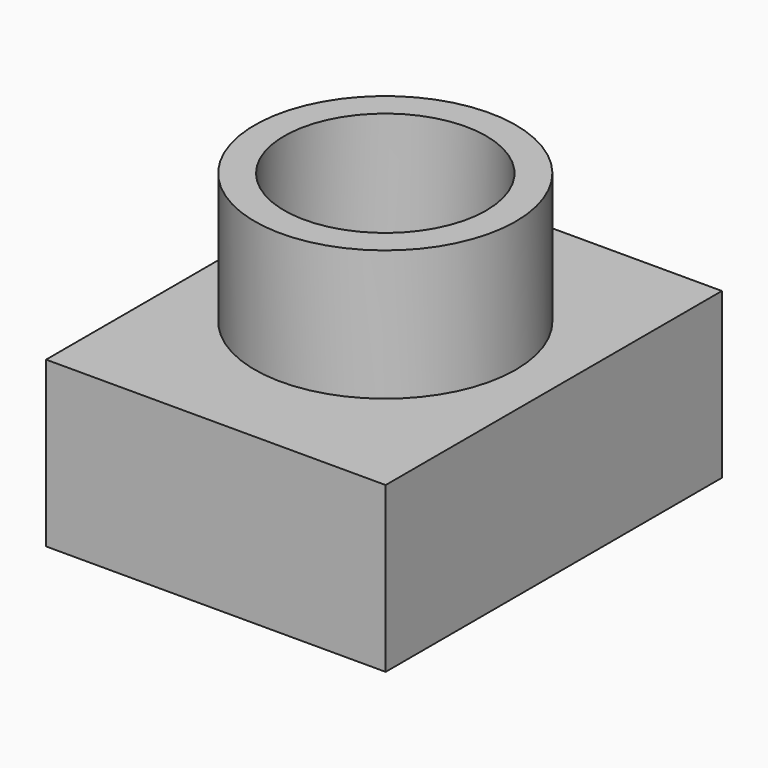
from build123d import *

# Parameters (mm, degrees)
F0_W     = 66.0715028644
F0_H     = 81.7836225033
F1_DEPTH = 32.004
F2_R     = 19.6431744844
F3_DEPTH = 63.246
F4_R     = 25.3969139416
F4_R_2   = 19.6431744844
F5_DEPTH = 25.4


with BuildPart() as f1:
    # F0 (on Top) → F1 (new body)
    with BuildSketch(Plane.XY):
        with Locations((0.6206892431, -1.0830126703)):
            Rectangle(F0_W, F0_H)
    extrude(amount=F1_DEPTH)

    # F2 (on face) → F3 (cut)
    with BuildSketch(Plane.XY.offset(32.004)):
        Circle(F2_R)
    extrude(amount=-F3_DEPTH, mode=Mode.SUBTRACT)

    # F4 (on face) → F5 (join)
    with BuildSketch(Plane.XY.offset(32.004)):
        Circle(F4_R)
        Circle(F4_R_2, mode=Mode.SUBTRACT)
    extrude(amount=F5_DEPTH)


solid = f1.part
